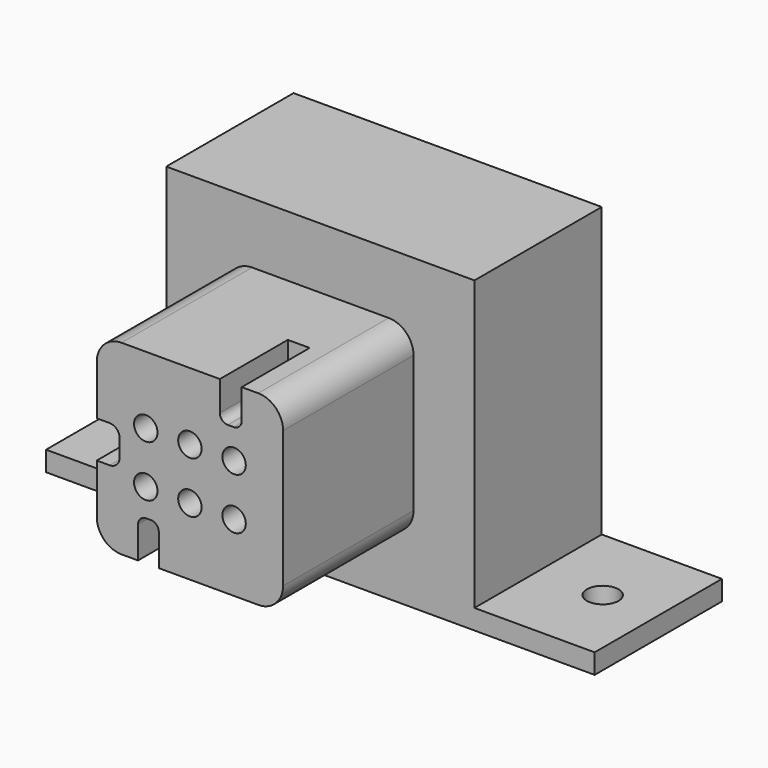
from build123d import *

# Parameters (mm, degrees)
F0_W      = 31
F0_H      = 31
F0_R      = 1.5
F1_DEPTH  = 16
F2_R      = 1.18
F3_DEPTH  = 16.4
F5_DEPTH  = 8.54
F6_R      = 1.18
F6_R_2    = 0.8
F7_DEPTH  = 3
F8_W      = 21.88
F8_H      = 18.18
F9_DEPTH  = 8
F10_W     = 12.0875
F10_H     = 16
F10_R     = 1.5875
F11_DEPTH = 2


with BuildPart() as f1:
    # F0 (on Front) → F1 (new body)
    with BuildSketch(Plane.XZ):
        Rectangle(F0_W, F0_H)
        with Locations((-4.44, -2.59)):
            Circle(F0_R, mode=Mode.SUBTRACT)
        with Locations((0, -2.59)):
            Circle(F0_R, mode=Mode.SUBTRACT)
        with Locations((4.44, -2.59)):
            Circle(F0_R, mode=Mode.SUBTRACT)
        with Locations((-4.44, 2.59)):
            Circle(F0_R, mode=Mode.SUBTRACT)
        with Locations((0, 2.59)):
            Circle(F0_R, mode=Mode.SUBTRACT)
        with Locations((4.44, 2.59)):
            Circle(F0_R, mode=Mode.SUBTRACT)
    extrude(amount=-F1_DEPTH)

    # F8 (on face) → F9 (cut)
    with BuildSketch(Plane(origin=(0, 16, 0), x_dir=(-1, 0, 0), z_dir=(0, 1, 0))):
        Rectangle(F8_W, F8_H)
    extrude(amount=-F9_DEPTH, mode=Mode.SUBTRACT)

    # F10 (on face) → F11 (join)
    with BuildSketch(Plane(origin=(0, 0, -15.5), x_dir=(1, 0, 0), z_dir=(0, 0, -1))):
        with Locations((-21.54375, -8)):
            Rectangle(F10_W, F10_H)
        with Locations((-22, -8)):
            Circle(F10_R, mode=Mode.SUBTRACT)
        with Locations((21.54375, -8)):
            Rectangle(F10_W, F10_H)
        with Locations((22, -8)):
            Circle(F10_R, mode=Mode.SUBTRACT)
    extrude(amount=-F11_DEPTH)


with BuildPart() as f3:
    # F2 (on face) → F3 (new body)
    with BuildSketch(Plane.XZ):
        with BuildLine():
            ThreePointArc((9.37, 6.87), (8.637767, 8.637767), (6.87, 9.37))
            Line((6.87, 9.37), (-6.87, 9.37))
            ThreePointArc((-6.87, 9.37), (-8.637767, 8.637767), (-9.37, 6.87))
            Line((-9.37, 6.87), (-9.37, -6.87))
            ThreePointArc((-9.37, -6.87), (-8.637767, -8.637767), (-6.87, -9.37))
            Line((-6.87, -9.37), (6.87, -9.37))
            ThreePointArc((6.87, -9.37), (8.637767, -8.637767), (9.37, -6.87))
            Line((9.37, -6.87), (9.37, 6.87))
        make_face()
        with Locations((-4.44, -2.59)):
            Circle(F2_R, mode=Mode.SUBTRACT)
        with Locations((0, -2.59)):
            Circle(F2_R, mode=Mode.SUBTRACT)
        with Locations((4.44, -2.59)):
            Circle(F2_R, mode=Mode.SUBTRACT)
        with Locations((-4.44, 2.59)):
            Circle(F2_R, mode=Mode.SUBTRACT)
        with Locations((0, 2.59)):
            Circle(F2_R, mode=Mode.SUBTRACT)
        with Locations((4.44, 2.59)):
            Circle(F2_R, mode=Mode.SUBTRACT)
    extrude(amount=F3_DEPTH)

    # F4 (on face) → F5 (cut)
    with BuildSketch(Plane.XZ.offset(16.4)):
        with BuildLine():
            Line((5.21, 9.37), (3.01, 9.37))
            Line((3.01, 9.37), (3.01, 6.37))
            ThreePointArc((3.01, 6.37), (3.244315, 5.804315), (3.81, 5.57))
            Line((3.81, 5.57), (4.41, 5.57))
            ThreePointArc((4.41, 5.57), (4.975685, 5.804315), (5.21, 6.37))
            Line((5.21, 6.37), (5.21, 9.37))
        make_face()
        with BuildLine():
            Line((-5.22, -6.17), (-5.22, -9.37))
            Line((-5.22, -9.37), (-3.13, -9.37))
            Line((-3.13, -9.37), (-3.13, -6.17))
            ThreePointArc((-3.13, -6.17), (-3.364315, -5.604315), (-3.93, -5.37))
            Line((-3.93, -5.37), (-4.42, -5.37))
            ThreePointArc((-4.42, -5.37), (-4.985685, -5.604315), (-5.22, -6.17))
        make_face()
        with BuildLine():
            Line((-8.07, 1.87), (-9.37, 1.87))
            Line((-9.37, 1.87), (-9.37, -1.87))
            Line((-9.37, -1.87), (-8.07, -1.87))
            ThreePointArc((-8.07, -1.87), (-7.362893, -1.577107), (-7.07, -0.87))
            Line((-7.07, -0.87), (-7.07, 0.87))
            ThreePointArc((-7.07, 0.87), (-7.362893, 1.577107), (-8.07, 1.87))
        make_face()
    extrude(amount=-F5_DEPTH, mode=Mode.SUBTRACT)

    # F6 (on face) → F7 (join)
    with BuildSketch(Plane.XZ):
        with Locations((4.44, 2.59)):
            Circle(F6_R)
        with Locations((4.44, 2.59)):
            Circle(F6_R_2, mode=Mode.SUBTRACT)
        with Locations((0, 2.59)):
            Circle(F6_R)
        with Locations((0, 2.59)):
            Circle(F6_R_2, mode=Mode.SUBTRACT)
        with Locations((-4.44, 2.59)):
            Circle(F6_R)
        with Locations((-4.44, 2.59)):
            Circle(F6_R_2, mode=Mode.SUBTRACT)
        with Locations((-4.44, -2.59)):
            Circle(F6_R)
        with Locations((-4.44, -2.59)):
            Circle(F6_R_2, mode=Mode.SUBTRACT)
        with Locations((0, -2.59)):
            Circle(F6_R)
        with Locations((0, -2.59)):
            Circle(F6_R_2, mode=Mode.SUBTRACT)
        with Locations((4.44, -2.59)):
            Circle(F6_R)
        with Locations((4.44, -2.59)):
            Circle(F6_R_2, mode=Mode.SUBTRACT)
    extrude(amount=F7_DEPTH)


solid = Compound([f1.part, f3.part])
